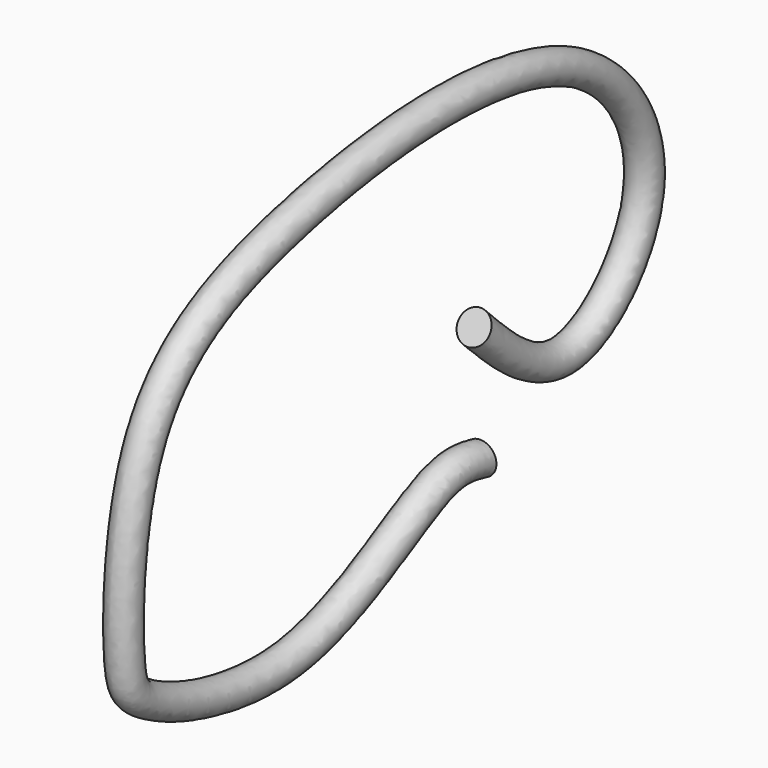
from build123d import *

# Parameters (mm, degrees)
F1_R = 6.35


with BuildPart() as f2:
    # F2: sweep along a path in F0
    with BuildLine(Plane.YZ) as f2_path:
        add(Plane.YZ * Edge.make_bspline(
            [(0, 0), (-5.8731720229, 1.3406295555), (-23.3635663077, 5.333044459), (-88.2797797491, -47.0433771755), (-169.7368056386, -18.1702953419), (-176.8696105578, -0.6154283736), (-174.2935357533, 87.4345593732), (-99.3646081771, 125.596640644), (48.0080417599, 139.840025939), (97.0645120062, 60.2016810119), (41.2302428063, 2.8298933627), (11.6253108484, 32.0215116382), (-3.0408482999, 46.4829169214)],
            knots=[0, 0, 0, 0, 0.0569216228, 0.1695134457, 0.2802913215, 0.3328911671, 0.4431640963, 0.5570234714, 0.7072210521, 0.8132881724, 0.9075037436, 1, 1, 1, 1], degree=3))
    # F1 (on Front) → F2 (sweep)
    with BuildSketch(Plane.XZ):
        Circle(F1_R)
    sweep(path=f2_path.line)


solid = f2.part
